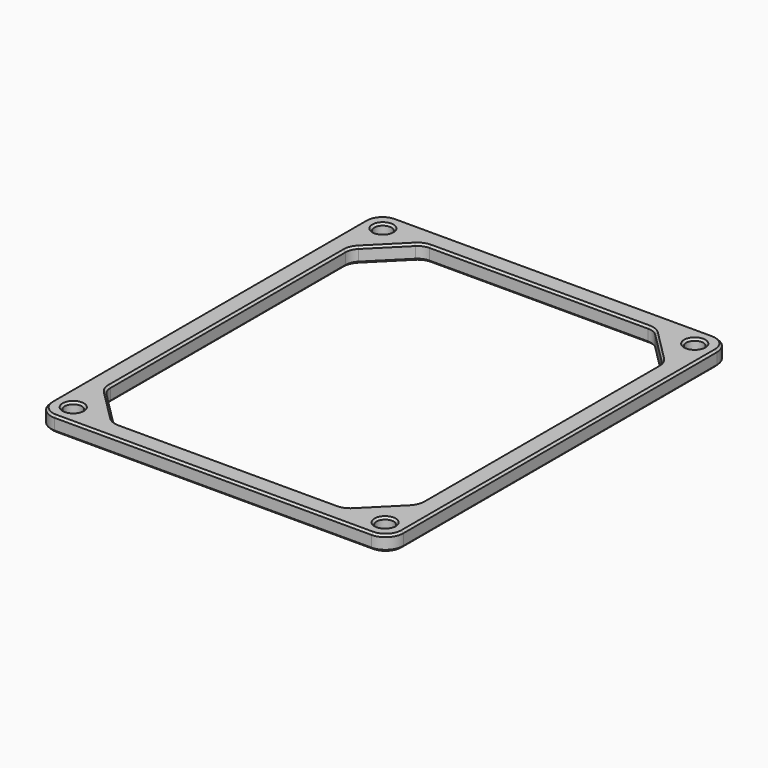
from build123d import *

# Parameters (mm, degrees)
SKETCH_W     = 69.72
SKETCH_H     = 84.6
SKETCH_R     = 1.7
PAD_DEPTH    = 3
FILLET_R     = 3.5
FILLET001_R  = 3
CHAMFER_SIZE = 0.4


with BuildPart() as part:
    # Sketch → Pad (new body)
    with BuildSketch(Plane.XY):
        with Locations((34.86, 42.3)):
            Rectangle(SKETCH_W, SKETCH_H)
        with Locations((4, 80.6)):
            Circle(SKETCH_R, mode=Mode.SUBTRACT)
        with Locations((65.72, 80.6)):
            Circle(SKETCH_R, mode=Mode.SUBTRACT)
        with Locations((4, 4)):
            Circle(SKETCH_R, mode=Mode.SUBTRACT)
        with Locations((65.72, 4)):
            Circle(SKETCH_R, mode=Mode.SUBTRACT)
        Polygon((4, 72.6), (12, 80.6), (57.72, 80.6), (65.72, 72.6), (65.72, 12), (57.72, 4), (12, 4), (4, 12), align=None, mode=Mode.SUBTRACT)
    extrude(amount=PAD_DEPTH)

    # Fillet
    fillet_edges = [part.edges().sort_by_distance(p)[0] for p in [
        (0, 0, 1.5),
        (69.72, 0, 1.5),
        (69.72, 84.6, 1.5),
        (0, 84.6, 1.5),
    ]]
    fillet(fillet_edges, radius=FILLET_R)

    # Fillet001
    fillet001_edges = [part.edges().sort_by_distance(p)[0] for p in [
        (4, 72.6, 1.5),
        (12, 80.6, 1.5),
        (57.72, 80.6, 1.5),
        (65.72, 72.6, 1.5),
        (12, 4, 1.5),
        (4, 12, 1.5),
        (65.72, 12, 1.5),
        (57.72, 4, 1.5),
    ]]
    fillet(fillet001_edges, radius=FILLET001_R)

    # Chamfer
    chamfer_edges = [part.edges().sort_by_distance(p)[0] for p in [
        (4, 42.3, 3),
        (4.228361, 12.09459, 3),
        (4.228361, 72.50541, 3),
        (8, 8, 3),
        (8, 76.6, 3),
        (12.09459, 4.228361, 3),
        (12.09459, 80.371639, 3),
        (34.86, 4, 3),
        (34.86, 80.6, 3),
        (57.62541, 4.228361, 3),
        (57.62541, 80.371639, 3),
        (61.72, 8, 3),
        (61.72, 76.6, 3),
        (65.491639, 12.09459, 3),
        (65.491639, 72.50541, 3),
        (65.72, 42.3, 3),
        (34.86, 84.6, 3),
        (1.025126, 83.574874, 3),
        (68.694874, 83.574874, 3),
        (0, 42.3, 3),
        (69.72, 42.3, 3),
        (1.025126, 1.025126, 3),
        (68.694874, 1.025126, 3),
        (34.86, 0, 3),
        (64.02, 80.6, 3),
        (64.02, 4, 3),
        (2.3, 80.6, 3),
        (2.3, 4, 3),
        (4, 42.3, 0),
        (4.228361, 12.09459, 0),
        (4.228361, 72.50541, 0),
        (8, 8, 0),
        (8, 76.6, 0),
        (12.09459, 4.228361, 0),
        (12.09459, 80.371639, 0),
        (34.86, 4, 0),
        (34.86, 80.6, 0),
        (57.62541, 4.228361, 0),
        (57.62541, 80.371639, 0),
        (61.72, 8, 0),
        (61.72, 76.6, 0),
        (65.491639, 12.09459, 0),
        (65.491639, 72.50541, 0),
        (65.72, 42.3, 0),
        (34.86, 84.6, 0),
        (1.025126, 83.574874, 0),
        (68.694874, 83.574874, 0),
        (0, 42.3, 0),
        (69.72, 42.3, 0),
        (1.025126, 1.025126, 0),
        (68.694874, 1.025126, 0),
        (34.86, 0, 0),
        (64.02, 80.6, 0),
        (64.02, 4, 0),
        (2.3, 80.6, 0),
        (2.3, 4, 0),
    ]]
    chamfer(chamfer_edges, length=CHAMFER_SIZE)


solid = part.part
